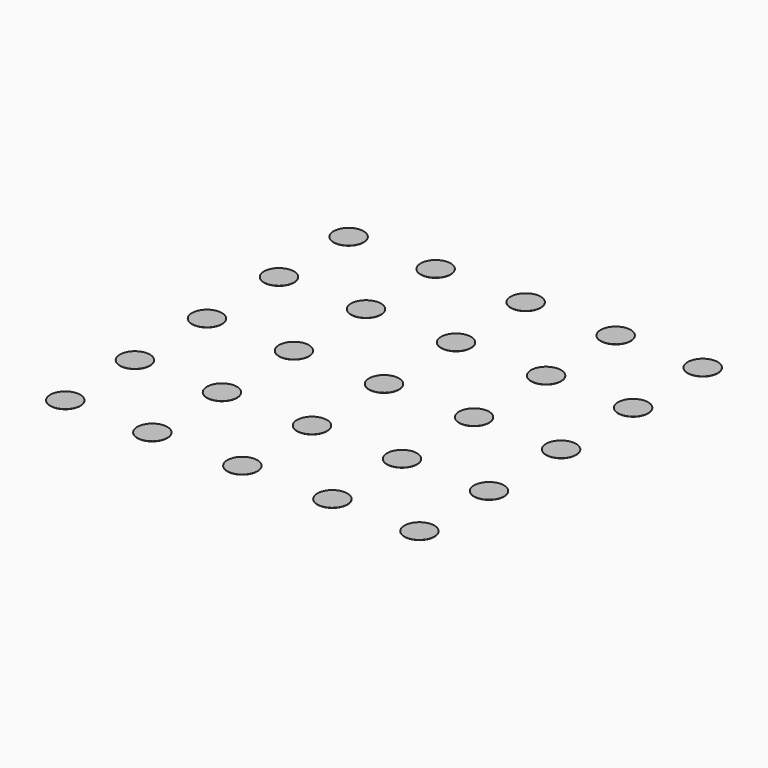
from build123d import *

# Parameters (mm, degrees)
CYLINDER_R        = 15
CYLINDER_DEPTH    = 0.2
CYLINDER001_R     = 15
CYLINDER001_DEPTH = 0.2
CYLINDER003_R     = 15
CYLINDER003_DEPTH = 0.2
CYLINDER004_R     = 15
CYLINDER004_DEPTH = 0.2
CYLINDER005_R     = 15
CYLINDER005_DEPTH = 0.2
CYLINDER006_R     = 15
CYLINDER006_DEPTH = 0.2
CYLINDER007_R     = 15
CYLINDER007_DEPTH = 0.2
CYLINDER008_R     = 15
CYLINDER008_DEPTH = 0.2
CYLINDER010_R     = 15
CYLINDER010_DEPTH = 0.2
CYLINDER012_R     = 15
CYLINDER012_DEPTH = 0.2
CYLINDER013_R     = 15
CYLINDER013_DEPTH = 0.2
CYLINDER014_R     = 15
CYLINDER014_DEPTH = 0.2
CYLINDER015_R     = 15
CYLINDER015_DEPTH = 0.2
CYLINDER016_R     = 15
CYLINDER016_DEPTH = 0.2
CYLINDER017_R     = 15
CYLINDER017_DEPTH = 0.2
CYLINDER018_R     = 15
CYLINDER018_DEPTH = 0.2
CYLINDER019_R     = 15
CYLINDER019_DEPTH = 0.2
CYLINDER020_R     = 15
CYLINDER020_DEPTH = 0.2
CYLINDER021_R     = 15
CYLINDER021_DEPTH = 0.2
CYLINDER023_R     = 15
CYLINDER023_DEPTH = 0.2
CYLINDER024_R     = 15
CYLINDER024_DEPTH = 0.2
CYLINDER022_R     = 15
CYLINDER022_DEPTH = 0.2
CYLINDER011_R     = 15
CYLINDER011_DEPTH = 0.2
CYLINDER009_R     = 15
CYLINDER009_DEPTH = 0.2
CYLINDER002_R     = 15
CYLINDER002_DEPTH = 0.2


with BuildPart() as cylinder005:
    # Cylinder → Cylinder (new body)
    with BuildSketch(Plane(origin=(382, 115, 0), x_dir=(1, 0, 0), z_dir=(0, 0, 1))):
        Circle(CYLINDER_R)
    extrude(amount=CYLINDER_DEPTH)


with BuildPart() as cylinder001:
    # Cylinder001 → Cylinder001 (new body)
    with BuildSketch(Plane(origin=(28, 115, 0), x_dir=(1, 0, 0), z_dir=(0, 0, 1))):
        Circle(CYLINDER001_R)
    extrude(amount=CYLINDER001_DEPTH)


with BuildPart() as cylinder003:
    # Cylinder003 → Cylinder003 (new body)
    with BuildSketch(Plane(origin=(205, 115, 0), x_dir=(1, 0, 0), z_dir=(0, 0, 1))):
        Circle(CYLINDER003_R)
    extrude(amount=CYLINDER003_DEPTH)


with BuildPart() as cylinder004:
    # Cylinder004 → Cylinder004 (new body)
    with BuildSketch(Plane(origin=(295, 115, 0), x_dir=(1, 0, 0), z_dir=(0, 0, 1))):
        Circle(CYLINDER004_R)
    extrude(amount=CYLINDER004_DEPTH)


with BuildPart() as cylinder006:
    # Cylinder005 → Cylinder005 (new body)
    with BuildSketch(Plane(origin=(382, 205, 0), x_dir=(1, 0, 0), z_dir=(0, 0, 1))):
        Circle(CYLINDER005_R)
    extrude(amount=CYLINDER005_DEPTH)


with BuildPart() as cylinder007:
    # Cylinder006 → Cylinder006 (new body)
    with BuildSketch(Plane(origin=(28, 205, 0), x_dir=(1, 0, 0), z_dir=(0, 0, 1))):
        Circle(CYLINDER006_R)
    extrude(amount=CYLINDER006_DEPTH)


with BuildPart() as cylinder008:
    # Cylinder007 → Cylinder007 (new body)
    with BuildSketch(Plane(origin=(205, 205, 0), x_dir=(1, 0, 0), z_dir=(0, 0, 1))):
        Circle(CYLINDER007_R)
    extrude(amount=CYLINDER007_DEPTH)


with BuildPart() as cylinder009:
    # Cylinder008 → Cylinder008 (new body)
    with BuildSketch(Plane(origin=(295, 205, 0), x_dir=(1, 0, 0), z_dir=(0, 0, 1))):
        Circle(CYLINDER008_R)
    extrude(amount=CYLINDER008_DEPTH)


with BuildPart() as cylinder014:
    # Cylinder010 → Cylinder010 (new body)
    with BuildSketch(Plane(origin=(382, 295, 0), x_dir=(1, 0, 0), z_dir=(0, 0, 1))):
        Circle(CYLINDER010_R)
    extrude(amount=CYLINDER010_DEPTH)


with BuildPart() as cylinder013:
    # Cylinder012 → Cylinder012 (new body)
    with BuildSketch(Plane(origin=(205, 295, 0), x_dir=(1, 0, 0), z_dir=(0, 0, 1))):
        Circle(CYLINDER012_R)
    extrude(amount=CYLINDER012_DEPTH)


with BuildPart() as cylinder011:
    # Cylinder013 → Cylinder013 (new body)
    with BuildSketch(Plane(origin=(295, 295, 0), x_dir=(1, 0, 0), z_dir=(0, 0, 1))):
        Circle(CYLINDER013_R)
    extrude(amount=CYLINDER013_DEPTH)


with BuildPart() as cylinder012:
    # Cylinder014 → Cylinder014 (new body)
    with BuildSketch(Plane(origin=(28, 295, 0), x_dir=(1, 0, 0), z_dir=(0, 0, 1))):
        Circle(CYLINDER014_R)
    extrude(amount=CYLINDER014_DEPTH)


with BuildPart() as cylinder019:
    # Cylinder015 → Cylinder015 (new body)
    with BuildSketch(Plane(origin=(382, 382, 0), x_dir=(1, 0, 0), z_dir=(0, 0, 1))):
        Circle(CYLINDER015_R)
    extrude(amount=CYLINDER015_DEPTH)


with BuildPart() as cylinder020:
    # Cylinder016 → Cylinder016 (new body)
    with BuildSketch(Plane(origin=(115, 115, 0), x_dir=(1, 0, 0), z_dir=(0, 0, 1))):
        Circle(CYLINDER016_R)
    extrude(amount=CYLINDER016_DEPTH)


with BuildPart() as cylinder016:
    # Cylinder017 → Cylinder017 (new body)
    with BuildSketch(Plane(origin=(295, 382, 0), x_dir=(1, 0, 0), z_dir=(0, 0, 1))):
        Circle(CYLINDER017_R)
    extrude(amount=CYLINDER017_DEPTH)


with BuildPart() as cylinder017:
    # Cylinder018 → Cylinder018 (new body)
    with BuildSketch(Plane(origin=(205, 382, 0), x_dir=(1, 0, 0), z_dir=(0, 0, 1))):
        Circle(CYLINDER018_R)
    extrude(amount=CYLINDER018_DEPTH)


with BuildPart() as cylinder018:
    # Cylinder019 → Cylinder019 (new body)
    with BuildSketch(Plane(origin=(28, 382, 0), x_dir=(1, 0, 0), z_dir=(0, 0, 1))):
        Circle(CYLINDER019_R)
    extrude(amount=CYLINDER019_DEPTH)


with BuildPart() as cylinder023:
    # Cylinder020 → Cylinder020 (new body)
    with BuildSketch(Plane(origin=(382, 28, 0), x_dir=(1, 0, 0), z_dir=(0, 0, 1))):
        Circle(CYLINDER020_R)
    extrude(amount=CYLINDER020_DEPTH)


with BuildPart() as cylinder024:
    # Cylinder021 → Cylinder021 (new body)
    with BuildSketch(Plane(origin=(205, 28, 0), x_dir=(1, 0, 0), z_dir=(0, 0, 1))):
        Circle(CYLINDER021_R)
    extrude(amount=CYLINDER021_DEPTH)


with BuildPart() as cylinder021:
    # Cylinder023 → Cylinder023 (new body)
    with BuildSketch(Plane(origin=(28, 28, 0), x_dir=(1, 0, 0), z_dir=(0, 0, 1))):
        Circle(CYLINDER023_R)
    extrude(amount=CYLINDER023_DEPTH)


with BuildPart() as cylinder022:
    # Cylinder024 → Cylinder024 (new body)
    with BuildSketch(Plane(origin=(295, 28, 0), x_dir=(1, 0, 0), z_dir=(0, 0, 1))):
        Circle(CYLINDER024_R)
    extrude(amount=CYLINDER024_DEPTH)


with BuildPart() as cylinder025:
    # Cylinder022 → Cylinder022 (new body)
    with BuildSketch(Plane(origin=(115, 382, 0), x_dir=(1, 0, 0), z_dir=(0, 0, 1))):
        Circle(CYLINDER022_R)
    extrude(amount=CYLINDER022_DEPTH)


with BuildPart() as cylinder015:
    # Cylinder011 → Cylinder011 (new body)
    with BuildSketch(Plane(origin=(115, 295, 0), x_dir=(1, 0, 0), z_dir=(0, 0, 1))):
        Circle(CYLINDER011_R)
    extrude(amount=CYLINDER011_DEPTH)


with BuildPart() as cylinder010:
    # Cylinder009 → Cylinder009 (new body)
    with BuildSketch(Plane(origin=(115, 205, 0), x_dir=(1, 0, 0), z_dir=(0, 0, 1))):
        Circle(CYLINDER009_R)
    extrude(amount=CYLINDER009_DEPTH)


with BuildPart() as cylinder002:
    # Cylinder002 → Cylinder002 (new body)
    with BuildSketch(Plane(origin=(115, 28, 0), x_dir=(1, 0, 0), z_dir=(0, 0, 1))):
        Circle(CYLINDER002_R)
    extrude(amount=CYLINDER002_DEPTH)


solid = Compound([cylinder005.part, cylinder001.part, cylinder003.part, cylinder004.part, cylinder006.part, cylinder007.part, cylinder008.part, cylinder009.part, cylinder014.part, cylinder013.part, cylinder011.part, cylinder012.part, cylinder019.part, cylinder020.part, cylinder016.part, cylinder017.part, cylinder018.part, cylinder023.part, cylinder024.part, cylinder021.part, cylinder022.part, cylinder025.part, cylinder015.part, cylinder010.part, cylinder002.part])
